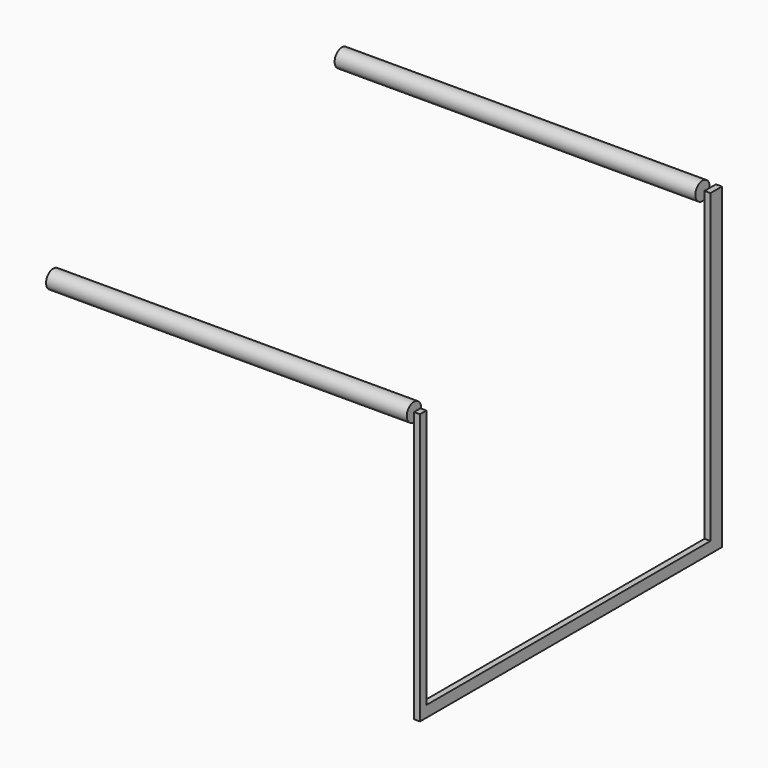
from build123d import *

# Parameters (mm, degrees)
F1_DEPTH = 1524
F2_W     = 34.133695066
F2_H     = 47.5836582482
F2_W_2   = 1500.4738345742
F2_H_2   = 1095.1993875206
F3_DEPTH = 25.4


with BuildPart() as f1:
    # F0 (on Right) → F1 (new body)
    with BuildSketch(Plane.YZ):
        with BuildLine():
            ThreePointArc((38.1, 1143), (-26.9407683632, 1169.9407683632), (0, 1104.9))
            ThreePointArc((0, 1104.9), (26.9407683632, 1116.0592316368), (38.1, 1143))
        make_face()
    extrude(amount=-F1_DEPTH)


with BuildPart() as f1b:
    # F0 (on Right) → F1, piece 2 (new body)
    with BuildSketch(Plane.YZ):
        with BuildLine():
            ThreePointArc((1562.1, 1346.2), (1497.0592316368, 1373.1407683632), (1524, 1308.1))
            ThreePointArc((1524, 1308.1), (1550.9407683632, 1319.2592316368), (1562.1, 1346.2))
        make_face()
    extrude(amount=-F1_DEPTH)


with BuildPart() as f3:
    # F2 (on Right) → F3 (new body)
    with BuildSketch(Plane.YZ):
        with Locations((17.066847533, 23.7918291241)):
            Rectangle(F2_W, F2_H)
        Polygon((1534.6075296402, 1341.6131734848), (1534.6075296402, 47.5836582482), (1534.6075296402, 0), (1594.7189331055, 0), (1594.7189331055, 1341.6131734848), align=None)
        with Locations((784.3706123531, 23.7918291241)):
            Rectangle(F2_W_2, F2_H)
        with Locations((17.066847533, 595.1833520085)):
            Rectangle(F2_W, F2_H_2)
    extrude(amount=F3_DEPTH)


solid = Compound([f1.part, f1b.part, f3.part])
